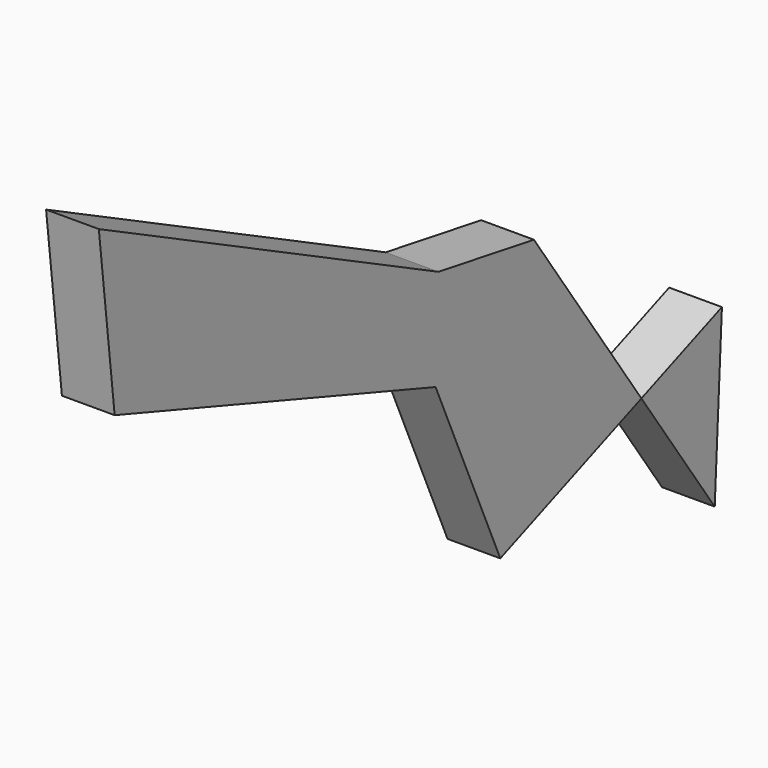
from build123d import *

# Parameters (mm, degrees)
F1_DEPTH = 25.4


with BuildPart() as f1:
    # F0 (on Right) → F1 (new body)
    with BuildSketch(Plane.YZ):
        Polygon((169.798968, -151.647653), (105.095994, -58.068307), (47.637358, -48.321754), (-156.77011, 52.881811), (-147.242755, -29.89161), (45.905054, -96.461743), (84.880978, -184.958339), align=None)
        Polygon((218.265533, -132.635728), (169.798968, -151.647653), (213.934883, -215.481043), align=None)
    extrude(amount=F1_DEPTH)


solid = f1.part
